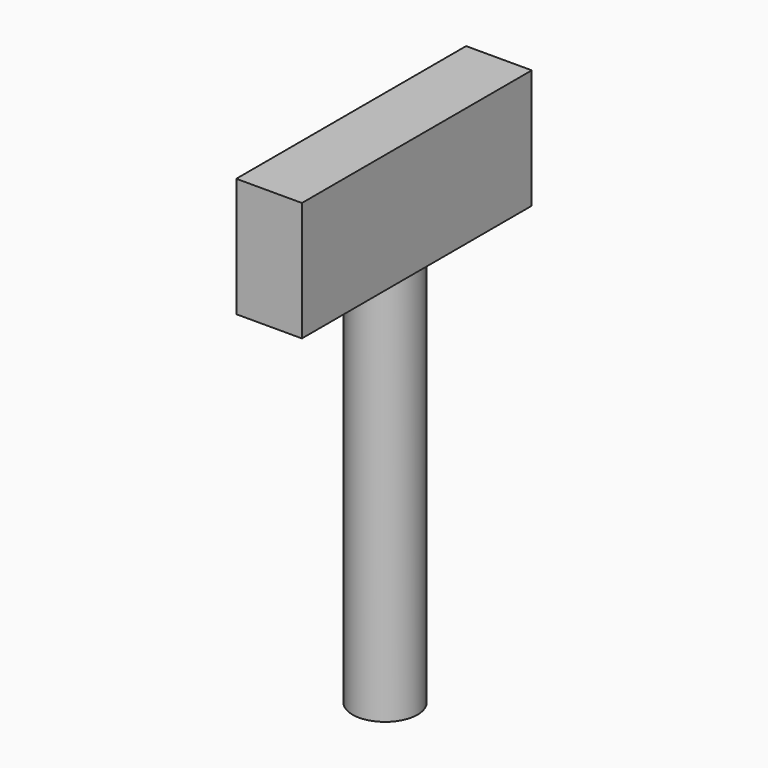
from build123d import *

# Parameters (mm, degrees)
F0_W     = 21.880734
F0_H     = 9.082569
F1_DEPTH = 5
F2_R     = 2.477061
F3_DEPTH = 30


with BuildPart() as f1:
    # F0 (on Right) → F1 (new body)
    with BuildSketch(Plane.YZ):
        with Locations((-55.83716, 4.541284)):
            Rectangle(F0_W, F0_H)
    extrude(amount=F1_DEPTH)

    # F2 (on Top) → F3 (join)
    with BuildSketch(Plane.XY):
        with Locations((2.167432, -55.321101)):
            Circle(F2_R)
    extrude(amount=-F3_DEPTH)


solid = f1.part
